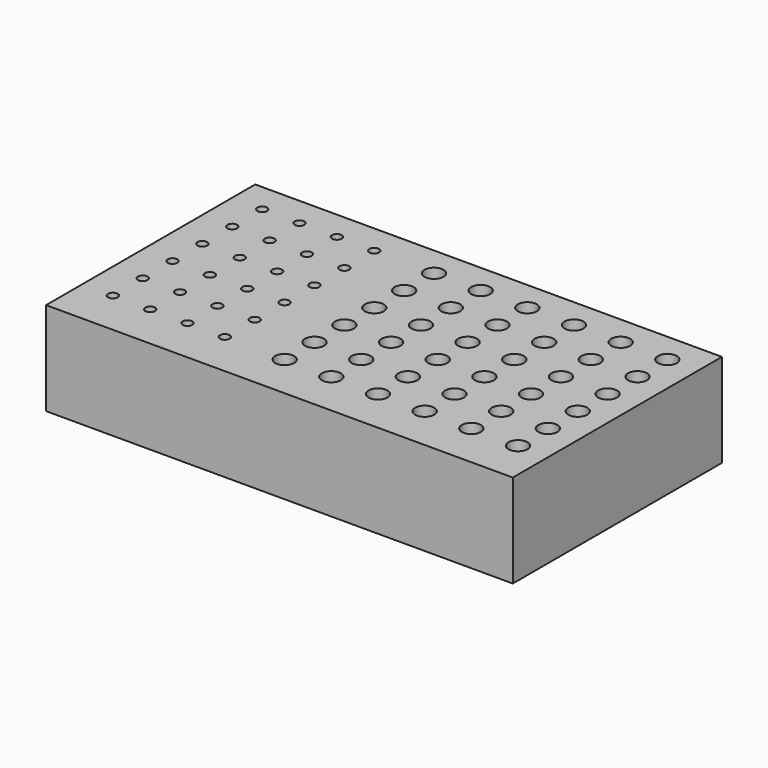
from build123d import *

# Parameters (mm, degrees)
F0_W     = 317.5
F0_H     = 177.8
F1_DEPTH = 63.5
F2_R     = 3.302
F3_DEPTH = 31.75
F4_R     = 6.477
F5_DEPTH = 12.7


with BuildPart() as f1:
    # F0 (on Top) → F1 (new body)
    with BuildSketch(Plane.XY):
        with Locations((23.460558, -30.150112)):
            Rectangle(F0_W, F0_H)
    extrude(amount=F1_DEPTH)

    # F2 (on face) → F3 (cut)
    with BuildSketch(Plane.XY.offset(63.5)):
        with Locations((-114.488609, 38.688812)):
            Circle(F2_R)
        with Locations((-114.488609, 13.288812)):
            Circle(F2_R)
        with Locations((-114.488609, -12.111188)):
            Circle(F2_R)
        with Locations((-114.488609, -37.511188)):
            Circle(F2_R)
        with Locations((-114.488609, -62.911188)):
            Circle(F2_R)
        with Locations((-114.488609, -88.311188)):
            Circle(F2_R)
        with Locations((-89.088609, 38.688812)):
            Circle(F2_R)
        with Locations((-89.088609, 13.288812)):
            Circle(F2_R)
        with Locations((-89.088609, -12.111188)):
            Circle(F2_R)
        with Locations((-89.088609, -37.511188)):
            Circle(F2_R)
        with Locations((-89.088609, -62.911188)):
            Circle(F2_R)
        with Locations((-89.088609, -88.311188)):
            Circle(F2_R)
        with Locations((-63.688609, 38.688812)):
            Circle(F2_R)
        with Locations((-63.688609, 13.288812)):
            Circle(F2_R)
        with Locations((-63.688609, -12.111188)):
            Circle(F2_R)
        with Locations((-63.688609, -37.511188)):
            Circle(F2_R)
        with Locations((-63.688609, -62.911188)):
            Circle(F2_R)
        with Locations((-63.688609, -88.311188)):
            Circle(F2_R)
        with Locations((-38.288609, 38.688812)):
            Circle(F2_R)
        with Locations((-38.288609, 13.288812)):
            Circle(F2_R)
        with Locations((-38.288609, -12.111188)):
            Circle(F2_R)
        with Locations((-38.288609, -37.511188)):
            Circle(F2_R)
        with Locations((-38.288609, -62.911188)):
            Circle(F2_R)
        with Locations((-38.288609, -88.311188)):
            Circle(F2_R)
    extrude(amount=-F3_DEPTH, mode=Mode.SUBTRACT)

    # F4 (on face) → F5 (cut)
    with BuildSketch(Plane.XY.offset(63.5)):
        with Locations((2.748668, 38.253274)):
            Circle(F4_R)
        with Locations((2.748668, 12.853274)):
            Circle(F4_R)
        with Locations((2.748668, -12.546726)):
            Circle(F4_R)
        with Locations((2.748668, -37.946726)):
            Circle(F4_R)
        with Locations((2.748668, -63.346726)):
            Circle(F4_R)
        with Locations((2.748668, -88.746726)):
            Circle(F4_R)
        with Locations((34.498668, 38.253274)):
            Circle(F4_R)
        with Locations((34.498668, 12.853274)):
            Circle(F4_R)
        with Locations((34.498668, -12.546726)):
            Circle(F4_R)
        with Locations((34.498668, -37.946726)):
            Circle(F4_R)
        with Locations((34.498668, -63.346726)):
            Circle(F4_R)
        with Locations((34.498668, -88.746726)):
            Circle(F4_R)
        with Locations((66.248668, 38.253274)):
            Circle(F4_R)
        with Locations((66.248668, 12.853274)):
            Circle(F4_R)
        with Locations((66.248668, -12.546726)):
            Circle(F4_R)
        with Locations((66.248668, -37.946726)):
            Circle(F4_R)
        with Locations((66.248668, -63.346726)):
            Circle(F4_R)
        with Locations((66.248668, -88.746726)):
            Circle(F4_R)
        with Locations((97.998668, 38.253274)):
            Circle(F4_R)
        with Locations((97.998668, 12.853274)):
            Circle(F4_R)
        with Locations((97.998668, -12.546726)):
            Circle(F4_R)
        with Locations((97.998668, -37.946726)):
            Circle(F4_R)
        with Locations((97.998668, -63.346726)):
            Circle(F4_R)
        with Locations((97.998668, -88.746726)):
            Circle(F4_R)
        with Locations((129.748668, 38.253274)):
            Circle(F4_R)
        with Locations((129.748668, 12.853274)):
            Circle(F4_R)
        with Locations((129.748668, -12.546726)):
            Circle(F4_R)
        with Locations((129.748668, -37.946726)):
            Circle(F4_R)
        with Locations((129.748668, -63.346726)):
            Circle(F4_R)
        with Locations((129.748668, -88.746726)):
            Circle(F4_R)
        with Locations((161.498668, 38.253274)):
            Circle(F4_R)
        with Locations((161.498668, 12.853274)):
            Circle(F4_R)
        with Locations((161.498668, -12.546726)):
            Circle(F4_R)
        with Locations((161.498668, -37.946726)):
            Circle(F4_R)
        with Locations((161.498668, -63.346726)):
            Circle(F4_R)
        with Locations((161.498668, -88.746726)):
            Circle(F4_R)
    extrude(amount=-F5_DEPTH, mode=Mode.SUBTRACT)


solid = f1.part
